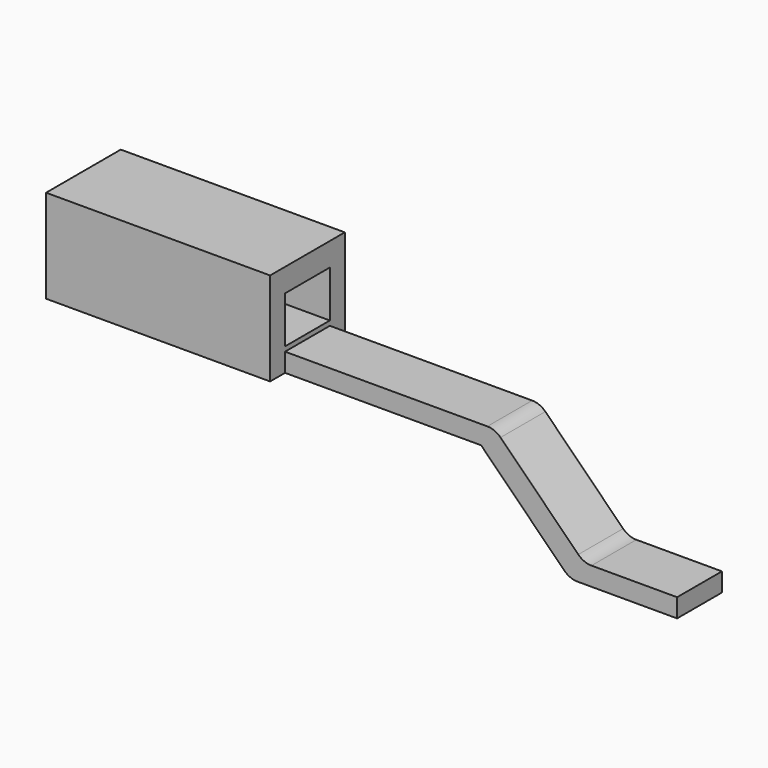
from build123d import *

# Parameters (mm, degrees)
BOX151_W     = 1.2
BOX151_H     = 0.5
BOX151_DEPTH = 0.5
BOX157_W     = 1.5
BOX157_H     = 0.3
BOX157_DEPTH = 0.1
BOX152_W     = 1.3
BOX152_H     = 0.3
BOX152_DEPTH = 0.575
BOX156_W     = 0.25
BOX156_H     = 0.3
BOX156_DEPTH = 0.475
BOX154_W     = 0.5
BOX154_H     = 0.3
BOX154_DEPTH = 0.5
BOX155_W     = 0.5
BOX155_H     = 0.3
BOX155_DEPTH = 0.75
BOX158_W     = 0.4
BOX158_H     = 0.3
BOX158_DEPTH = 0.75
FILLET025_R  = 0.1
FILLET024_R  = 0.1
BOX153_W     = 1.5
BOX153_H     = 0.3
BOX153_DEPTH = 0.25
FILLET031_R  = 0.1


with BuildPart() as part:
    # Box151 → Box151 (join)
    with BuildSketch(Plane(origin=(-2, 4.25, 0.475), x_dir=(1, 0, 0), z_dir=(0, 0, 1))):
        with Locations((0.6, 0.25)):
            Rectangle(BOX151_W, BOX151_H)
    extrude(amount=BOX151_DEPTH)

    # Box157 → Box157 (join)
    with BuildSketch(Plane(origin=(-0.8, 4.35, 0.475), x_dir=(1, 0, 0), z_dir=(0, 0, 1))):
        with Locations((0.75, 0.15)):
            Rectangle(BOX157_W, BOX157_H)
    extrude(amount=BOX157_DEPTH)

    # Box152 → Box152 (join)
    with BuildSketch(Plane(origin=(0, 4.35, 0), x_dir=(1, 0, 0), z_dir=(0, 0, 1))):
        with Locations((0.65, 0.15)):
            Rectangle(BOX152_W, BOX152_H)
    extrude(amount=BOX152_DEPTH)

    # Box156 → Box156 (cut)
    with BuildSketch(Plane(origin=(0, 4.35, 0), x_dir=(1, 0, 0), z_dir=(0, 0, 1))):
        with Locations((0.125, 0.15)):
            Rectangle(BOX156_W, BOX156_H)
    extrude(amount=BOX156_DEPTH, mode=Mode.SUBTRACT)

    # Box154 → Box154 (cut)
    with BuildSketch(Plane(origin=(0.8, 4.35, 0.1), x_dir=(1, 0, 0), z_dir=(0, 0, 1))):
        with Locations((0.25, 0.15)):
            Rectangle(BOX154_W, BOX154_H)
    extrude(amount=BOX154_DEPTH, mode=Mode.SUBTRACT)

    # Box155 → Box155 (cut)
    with BuildSketch(Plane(origin=(0.8, 4.35, 0.1), x_dir=(0.707107, 0, 0.707107), z_dir=(-0.707107, 0, 0.707107))):
        with Locations((0.25, 0.15)):
            Rectangle(BOX155_W, BOX155_H)
    extrude(amount=BOX155_DEPTH, mode=Mode.SUBTRACT)

    # Box158 → Box158 (cut)
    with BuildSketch(Plane(origin=(0.4975, 4.35, -0.338), x_dir=(0.707107, 0, 0.707107), z_dir=(-0.707107, 0, 0.707107))):
        with Locations((0.2, 0.15)):
            Rectangle(BOX158_W, BOX158_H)
    extrude(amount=BOX158_DEPTH, mode=Mode.SUBTRACT)

    # Fillet025
    fillet025_edges = [part.edges().sort_by_distance(p)[0] for p in [
        (0.325, 4.5, 0.575),
    ]]
    fillet(fillet025_edges, radius=FILLET025_R)

    # Fillet024
    fillet024_edges = [part.edges().sort_by_distance(p)[0] for p in [
        (0.725185, 4.5, 0),
    ]]
    fillet(fillet024_edges, radius=FILLET024_R)

    # Box153 → Box153 (cut)
    with BuildSketch(Plane(origin=(-2, 4.35, 0.6), x_dir=(1, 0, 0), z_dir=(0, 0, 1))):
        with Locations((0.75, 0.15)):
            Rectangle(BOX153_W, BOX153_H)
    extrude(amount=BOX153_DEPTH, mode=Mode.SUBTRACT)

    # Fillet031
    fillet031_edges = [part.edges().sort_by_distance(p)[0] for p in [
        (0.8, 4.5, 0.1),
    ]]
    fillet(fillet031_edges, radius=FILLET031_R)


with BuildPart() as part_1:
    # Body046 placement: moved
    add(part.part.moved(Location((0, -5.5, 0))))


solid = part_1.part
